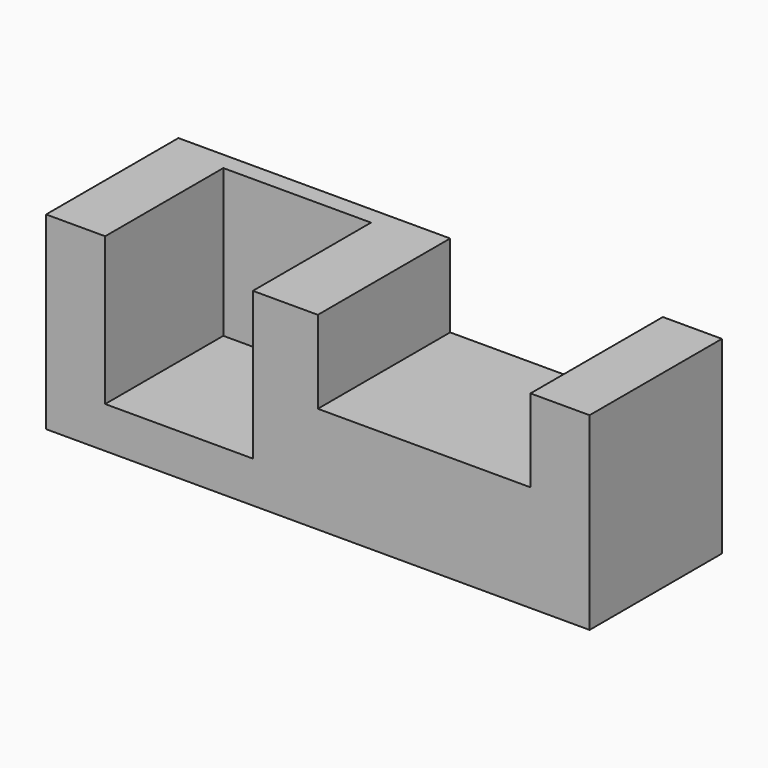
from build123d import *

# Parameters (mm, degrees)
F0_W     = 1168.4
F0_H     = 355.6
F1_DEPTH = 406.4
F2_W     = 457.2
F2_H     = 177.8
F3_DEPTH = 355.6
F2_W_2   = 317.5
F2_H_2   = 317.5
F4_DEPTH = 317.5


with BuildPart() as f1:
    # F0 (on Top) → F1 (new body)
    with BuildSketch(Plane.XY):
        with Locations((-14.636927, -52.226185)):
            Rectangle(F0_W, F0_H)
        with Locations((-14.636927, -52.226185)):
            Rectangle(F0_W, F0_H)
    extrude(amount=F1_DEPTH)

    # F2 (on face) → F3 (cut)
    with BuildSketch(Plane.XZ.offset(230.026185)):
        with Locations((213.963073, 317.5)):
            Rectangle(F2_W, F2_H)
    extrude(amount=-F3_DEPTH, mode=Mode.SUBTRACT)

    # F2 (on face) → F4 (cut)
    with BuildSketch(Plane.XZ.offset(230.026185)):
        with Locations((-313.086927, 247.65)):
            Rectangle(F2_W_2, F2_H_2)
    extrude(amount=-F4_DEPTH, mode=Mode.SUBTRACT)


solid = f1.part
